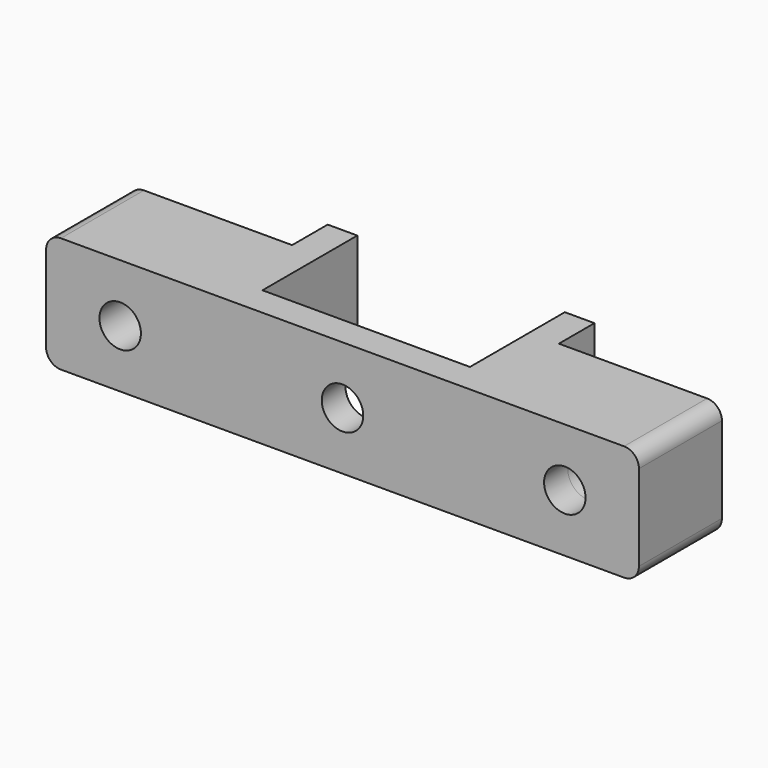
from build123d import *

# Parameters (mm, degrees)
F1_DEPTH = 2
F2_R     = 1
F4_DEPTH = 8
F5_DEPTH = 5


with BuildPart() as f1:
    # F0 (on Front) → F1 (new body)
    with BuildSketch(Plane.XZ):
        Polygon((0, 3.9), (0, 0), (40, 0), (40, 3.9), (40, 7.8), (20, 7.8), (0, 7.8), align=None)
        with BuildLine():
            ThreePointArc((6.4, 3.9), (5, 2.5), (3.6, 3.9))
            ThreePointArc((3.6, 3.9), (5, 5.3), (6.4, 3.9))
        make_face(mode=Mode.SUBTRACT)
        with BuildLine():
            ThreePointArc((21.4, 3.9), (19.0100505063, 2.9100505063), (20, 5.3))
            ThreePointArc((20, 5.3), (20.9899494937, 4.8899494937), (21.4, 3.9))
        make_face(mode=Mode.SUBTRACT)
        with BuildLine():
            ThreePointArc((33.6, 3.9), (35, 5.3), (36.4, 3.9))
            ThreePointArc((36.4, 3.9), (35, 2.5), (33.6, 3.9))
        make_face(mode=Mode.SUBTRACT)
    extrude(amount=F1_DEPTH)

    # F2
    f2_edges = [f1.edges().sort_by_distance(p)[0] for p in [
        (0, -1, 7.8),
        (0, -1, 0),
        (40, -1, 7.8),
        (40, -1, 0),
    ]]
    fillet(f2_edges, radius=F2_R)

    # F3 (on face) → F4 (join)
    with BuildSketch(Plane(origin=(0, 0, 0), x_dir=(-1, 0, 0), z_dir=(0, 1, 0))):
        Polygon((-13, 7.8), (-13, 3.9), (-13, 0), (-11, 0), (-11, 7.8), align=None)
        Polygon((-27, 0), (-27, 3.9), (-27, 7.8), (-29, 7.8), (-29, 0), align=None)
    extrude(amount=F4_DEPTH)

    # F5 (add): faces of the model
    f5_faces = [f1.faces().sort_by_distance(p)[0] for p in [
        (0.3882451983, 0, 0.3882451983),
        (29.1348480626, 0, 3.9),
    ]]
    extrude(f5_faces, amount=F5_DEPTH)


solid = f1.part
